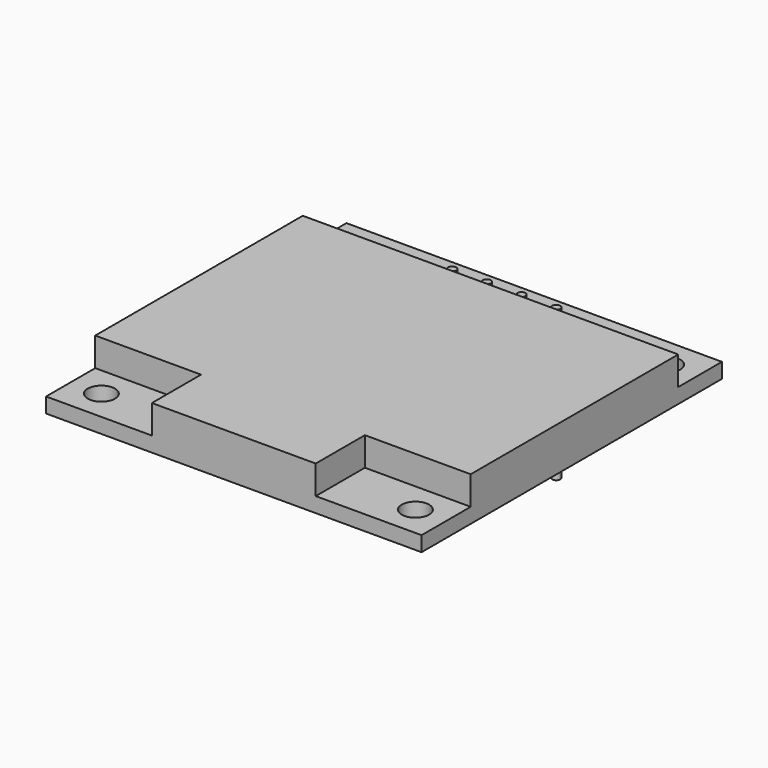
from build123d import *

# Parameters (mm, degrees)
CYLINDER_R        = 0.3
CYLINDER_DEPTH    = 11
CYLINDER001_R     = 0.3
CYLINDER001_DEPTH = 11
CYLINDER002_R     = 0.3
CYLINDER002_DEPTH = 11
CYLINDER003_R     = 0.3
CYLINDER003_DEPTH = 11
SKETCH_W          = 27.5
SKETCH_H          = 27.5
PAD_DEPTH         = 1.1
SKETCH001_R       = 1
POCKET_DEPTH      = 1.1
PAD001_DEPTH      = 2.1


with BuildPart() as zylinder:
    # Cylinder → Cylinder (new body)
    with BuildSketch(Plane(origin=(-3.81, 11, -8.5), x_dir=(1, 0, 0), z_dir=(0, 0, 1))):
        Circle(CYLINDER_R)
    extrude(amount=CYLINDER_DEPTH)


with BuildPart() as zylinder001:
    # Cylinder001 → Cylinder001 (new body)
    with BuildSketch(Plane(origin=(-1.27, 11, -8.5), x_dir=(1, 0, 0), z_dir=(0, 0, 1))):
        Circle(CYLINDER001_R)
    extrude(amount=CYLINDER001_DEPTH)


with BuildPart() as zylinder002:
    # Cylinder002 → Cylinder002 (new body)
    with BuildSketch(Plane(origin=(3.81, 11, -8.5), x_dir=(1, 0, 0), z_dir=(0, 0, 1))):
        Circle(CYLINDER002_R)
    extrude(amount=CYLINDER002_DEPTH)


with BuildPart() as zylinder003:
    # Cylinder003 → Cylinder003 (new body)
    with BuildSketch(Plane(origin=(1.27, 11, -8.5), x_dir=(1, 0, 0), z_dir=(0, 0, 1))):
        Circle(CYLINDER003_R)
    extrude(amount=CYLINDER003_DEPTH)


with BuildPart() as fusion:
    # Sketch → Pad (new body)
    with BuildSketch(Plane.XY):
        Rectangle(SKETCH_W, SKETCH_H)
    extrude(amount=PAD_DEPTH)

    # Sketch001 → Pocket (cut)
    with BuildSketch(Plane.XY):
        with Locations((-11.5, 11.5)):
            Circle(SKETCH001_R)
        with Locations((11.5, 11.5)):
            Circle(SKETCH001_R)
        with Locations((11.5, -11.5)):
            Circle(SKETCH001_R)
        with Locations((-11.5, -11.5)):
            Circle(SKETCH001_R)
    extrude(amount=POCKET_DEPTH, mode=Mode.SUBTRACT)

    # Sketch002 (on Face5 of Pocket) → Pad001 (join)
    with BuildSketch(Plane.XY.offset(1.1)):
        Polygon((-13.75, 9.75), (13.75, 9.75), (13.75, -9.25), (6, -9.25), (6, -13.75), (-6, -13.75), (-6, -9.25), (-13.75, -9.25), align=None)
    extrude(amount=PAD001_DEPTH)

    # Fusion: union Zylinder, Zylinder001, Zylinder002, Zylinder003
    add(zylinder.part)
    add(zylinder001.part)
    add(zylinder002.part)
    add(zylinder003.part)


solid = fusion.part
